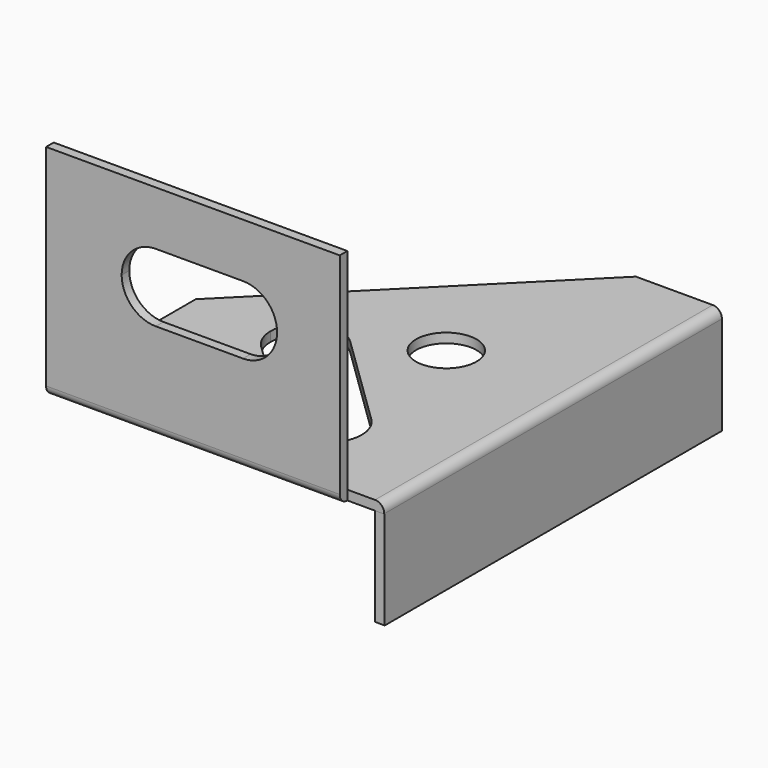
from build123d import *

# Parameters (mm, degrees)
F0_R      = 4.925
F1_DEPTH  = 1.55
F2_W      = 1.55
F2_H      = 68.6
F3_DEPTH  = 16
F4_W      = 47.8
F4_H      = 1.55
F5_DEPTH  = 1.55
F6_W      = 47.8
F6_H      = 1.55
F7_DEPTH  = 34.2
F8_R      = 1.5
F12_DEPTH = 1.551


with BuildPart() as f1:
    # F0 (on Top) → F1 (new body)
    with BuildSketch(Plane.XY):
        Polygon((-51.3558513849, 10.4234758295), (-51.3558513849, -58.2765241705), (2.4441486151, -58.2765241705), (2.4441486151, -29.3765241705), (-37.3558513849, 10.4234758295), align=None)
        with BuildLine():
            ThreePointArc((-27.6816260073, -49.4227633754), (-35.7418681063, -49.3109720316), (-35.6300767624, -41.2507299325))
            Line((-35.6300767624, -41.2507299325), (-20.1462239232, -26.190507449))
            ThreePointArc((-20.1462239232, -26.190507449), (-13.9542389387, -25.0256630672), (-10.4719985456, -30.2765241705))
            ThreePointArc((-10.4719985456, -30.2765241705), (-10.9211374423, -32.4942837773), (-12.197773168, -34.3625408919))
            Line((-12.197773168, -34.3625408919), (-27.6816260073, -49.4227633754))
        make_face(mode=Mode.SUBTRACT)
        with Locations((-31.2308513849, -20.5015241705)):
            Circle(F0_R, mode=Mode.SUBTRACT)
    extrude(amount=F1_DEPTH)

    # F2 (on face) → F3 (join)
    with BuildSketch(Plane(origin=(0, 0, 0), x_dir=(1, 0, 0), z_dir=(0, 0, -1))):
        with Locations((-50.5808513849, 23.8765241705)):
            Rectangle(F2_W, F2_H)
    extrude(amount=F3_DEPTH)

    # F4 (on face) → F5 (join)
    with BuildSketch(Plane.XY.offset(1.55)):
        with Locations((-21.4558513849, -59.0515241705)):
            Rectangle(F4_W, F4_H)
    extrude(amount=-F5_DEPTH)

    # F6 (on face) → F7 (join)
    with BuildSketch(Plane.XY.offset(1.55)):
        with Locations((-21.4558513849, -59.0515241705)):
            Rectangle(F6_W, F6_H)
    extrude(amount=F7_DEPTH)

    # F8
    f8_edges = [f1.edges().sort_by_distance(p)[0] for p in [
        (-21.455851, -59.826524, 0),
        (-51.355851, -23.926524, 1.55),
    ]]
    fillet(f8_edges, radius=F8_R)


with BuildPart() as f9_1:
    # F9: instance of F1
    add(f1.part.mirror(Plane.YZ))

    # F11 (on face) → F12 (cut, through all)
    with BuildSketch(Plane(origin=(0, -58.2765241705, 0), x_dir=(-1, 0, 0), z_dir=(0, 1, 0))):
        with BuildLine():
            ThreePointArc((-29.6058513849, 15.85), (-25.6814087493, 17.4755573644), (-24.0558513849, 21.4))
            ThreePointArc((-24.0558513849, 21.4), (-25.6814087493, 25.3244426356), (-29.6058513849, 26.95))
            ThreePointArc((-29.6058513849, 26.95), (-35.1558513849, 21.4), (-29.6058513849, 15.85))
        make_face()
        with BuildLine():
            ThreePointArc((-29.6058513849, 26.95), (-25.6814087493, 25.3244426356), (-24.0558513849, 21.4))
            ThreePointArc((-24.0558513849, 21.4), (-25.6814087493, 17.4755573644), (-29.6058513849, 15.85))
            Line((-29.6058513849, 15.85), (-15.4058513849, 15.85))
            ThreePointArc((-15.4058513849, 15.85), (-20.9558513849, 21.4), (-15.4058513849, 26.95))
            Line((-15.4058513849, 26.95), (-29.6058513849, 26.95))
        make_face()
        with BuildLine():
            ThreePointArc((-9.8558513849, 21.4), (-11.4814087493, 25.3244426356), (-15.4058513849, 26.95))
            ThreePointArc((-15.4058513849, 26.95), (-20.9558513849, 21.4), (-15.4058513849, 15.85))
            ThreePointArc((-15.4058513849, 15.85), (-11.4814087493, 17.4755573644), (-9.8558513849, 21.4))
        make_face()
    extrude(amount=-F12_DEPTH, mode=Mode.SUBTRACT)


solid = f9_1.part
